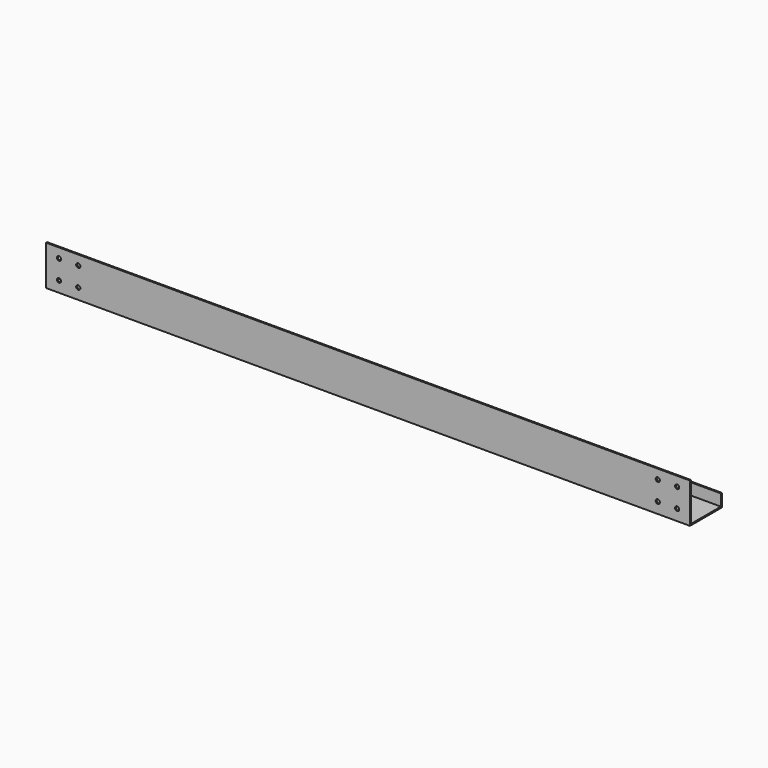
from build123d import *

# Parameters (mm, degrees)
F1_DEPTH = 1000
F2_R     = 3.25
F3_DEPTH = 25


with BuildPart() as f1:
    # F0 (on Right) → F1 (new body)
    with BuildSketch(Plane.YZ):
        Polygon((0, 62), (0, 0), (62, 0), (62, 20), (60, 20), (60, 2), (2, 2), (2, 62), align=None)
    extrude(amount=F1_DEPTH)

    # F2 (on face) → F3 (cut)
    with BuildSketch(Plane(origin=(0, 2, 0), x_dir=(-1, 0, 0), z_dir=(0, 1, 0))):
        with Locations((-980, 47)):
            Circle(F2_R)
        with Locations((-950, 47)):
            Circle(F2_R)
        with Locations((-980, 17)):
            Circle(F2_R)
        with Locations((-950, 17)):
            Circle(F2_R)
        with Locations((-50, 47)):
            Circle(F2_R)
        with Locations((-20, 47)):
            Circle(F2_R)
        with Locations((-20, 17)):
            Circle(F2_R)
        with Locations((-50, 17)):
            Circle(F2_R)
    extrude(amount=-F3_DEPTH, mode=Mode.SUBTRACT)


solid = f1.part
